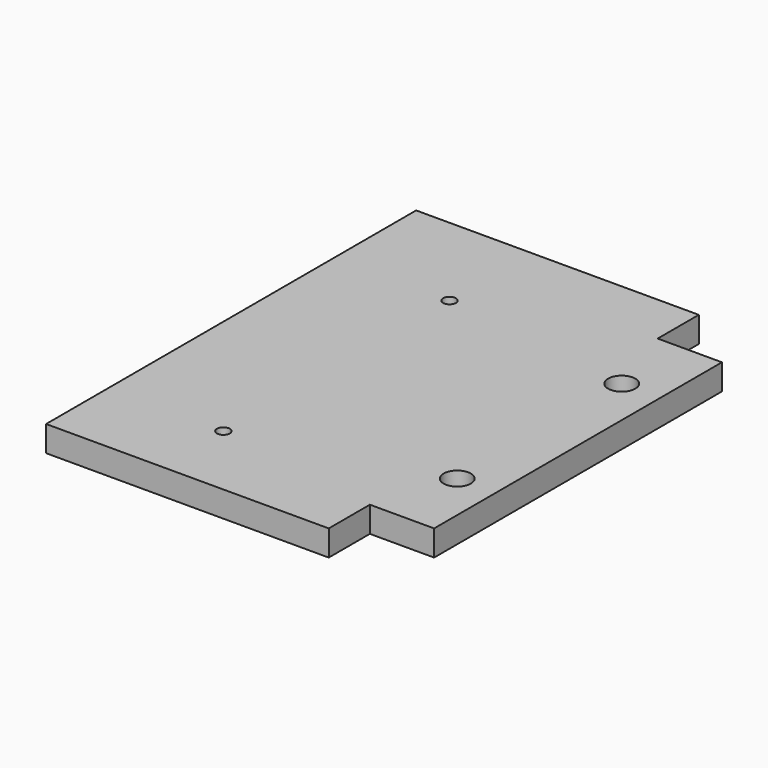
from build123d import *

# Parameters (mm, degrees)
PAD_DEPTH       = 5
SKETCH001_R     = 1.25
POCKET_DEPTH    = 5
SKETCH002_R     = 2.65
POCKET001_DEPTH = 5


with BuildPart() as part:
    # Sketch → Pad (new body)
    with BuildSketch(Plane.XY):
        Polygon((-33.75, -45), (-33.75, 45), (21.25, 45), (21.25, 35), (33.75, 35), (33.75, -35), (21.25, -35), (21.25, -45), align=None)
    extrude(amount=PAD_DEPTH)

    # Sketch001 (on Face10 of Pad) → Pocket (cut)
    with BuildSketch(Plane.XY.offset(5)):
        with Locations((-11.25, 25)):
            Circle(SKETCH001_R)
        with Locations((-11.25, -30)):
            Circle(SKETCH001_R)
    extrude(amount=-POCKET_DEPTH, mode=Mode.SUBTRACT)

    # Sketch002 (on Face5 of Pocket) → Pocket001 (cut)
    with BuildSketch(Plane.XY.offset(5)):
        with Locations((26.25, 20)):
            Circle(SKETCH002_R)
        with Locations((26.25, -20)):
            Circle(SKETCH002_R)
    extrude(amount=-POCKET001_DEPTH, mode=Mode.SUBTRACT)


solid = part.part
